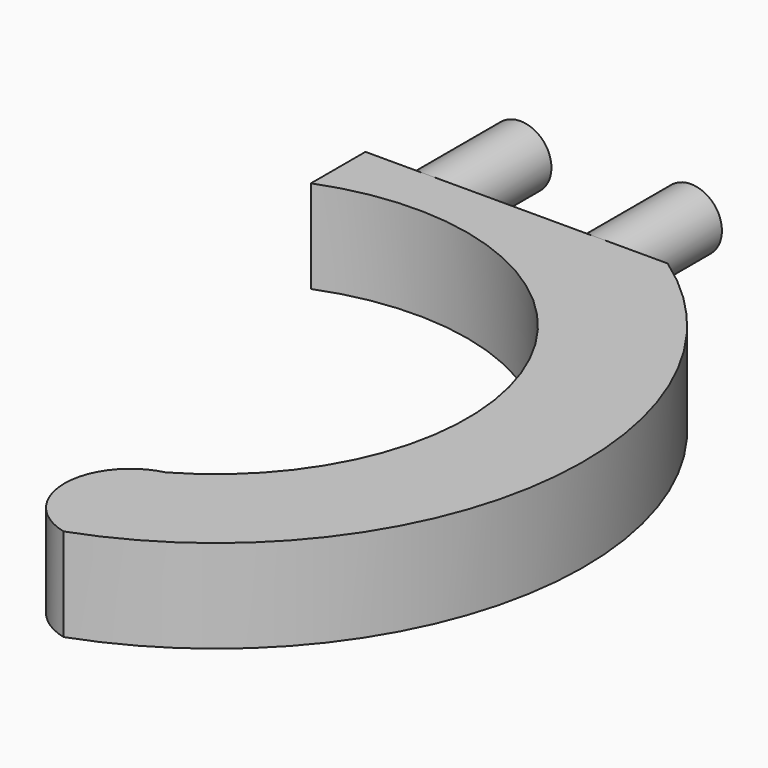
from build123d import *

# Parameters (mm, degrees)
BOX_W                  = 39
BOX_H                  = 3
BOX_DEPTH              = 8
CYLINDER_R             = 4
CYLINDER_DEPTH         = 15
CYLINDER_ROLL_ANGLE    = 90
CYLINDER001_R          = 4
CYLINDER001_DEPTH      = 15
CYLINDER001_ROLL_ANGLE = 90
PAD001_DEPTH           = 9
PAD_DEPTH              = 12


with BuildPart() as base:
    # Box → Box (new body)
    with BuildSketch(Plane(origin=(-8, -18, -4), x_dir=(1, 0, 0), z_dir=(0, 0, 1))):
        with Locations((19.5, 1.5)):
            Rectangle(BOX_W, BOX_H)
    extrude(amount=BOX_DEPTH)


with BuildPart() as pin2:
    # Cylinder → Cylinder (new body)
    with BuildSketch(Plane.XY):
        Circle(CYLINDER_R)
    extrude(amount=CYLINDER_DEPTH)


with BuildPart() as pin2_1:
    # Cylinder roll: moved
    add(pin2.part.rotate(Axis((0, 0, 0), (1, 0, 0)), CYLINDER_ROLL_ANGLE))


with BuildPart() as pin2_2:
    # Cylinder placement: moved
    add(pin2_1.part.moved(Location((22, 0, 0))))


with BuildPart() as pin1:
    # Cylinder001 → Cylinder001 (new body)
    with BuildSketch(Plane.XY):
        Circle(CYLINDER001_R)
    extrude(amount=CYLINDER001_DEPTH)


with BuildPart() as pin1_1:
    # Cylinder001 roll: moved
    add(pin1.part.rotate(Axis((0, 0, 0), (1, 0, 0)), CYLINDER001_ROLL_ANGLE))


with BuildPart() as pin1_2:
    # Cylinder001 placement: moved
    add(pin1_1.part)


with BuildPart() as pad001:
    # Sketch002 → Pad001 (new body)
    with BuildSketch(Plane(origin=(11, -18, -4), x_dir=(1, 0, 0), z_dir=(0, 0, -1))):
        with BuildLine():
            ThreePointArc((12.621417, 0), (33.637085, 41.443099), (2.455765, 75.894718))
            Line((2.455765, 75.894718), (2.211865, 74.924819))
            ThreePointArc((10.435596, 0), (32.761211, 40.364181), (2.211865, 74.924819))
            Line((10.435596, 0), (12.621417, 0))
        make_face()
    extrude(amount=-PAD001_DEPTH)


with BuildPart() as cut:
    # Sketch001 → Pad (new body)
    with BuildSketch(Plane(origin=(0, -18, -4), x_dir=(1, 0, 0), z_dir=(0, 0, -1))):
        with BuildLine():
            ThreePointArc((31, -3), (50.986116, 42.194698), (20, 80.689712))
            ThreePointArc((20, 80.689712), (13.509552, 72.438184), (20, 64.186656))
            ThreePointArc((-8, 5.8), (33.160574, 21.968159), (20, 64.186656))
            Line((-8, 5.8), (-8, -3))
            Line((-8, -3), (31, -3))
        make_face()
    extrude(amount=-PAD_DEPTH)

    # Cut: cut Pad001
    add(pad001.part, mode=Mode.SUBTRACT)


with BuildPart() as cut_1:
    # Cut placement: moved
    add(cut.part.moved(Location((0, 0, -4))))


solid = Compound([base.part, pin2_2.part, pin1_2.part, cut_1.part])
